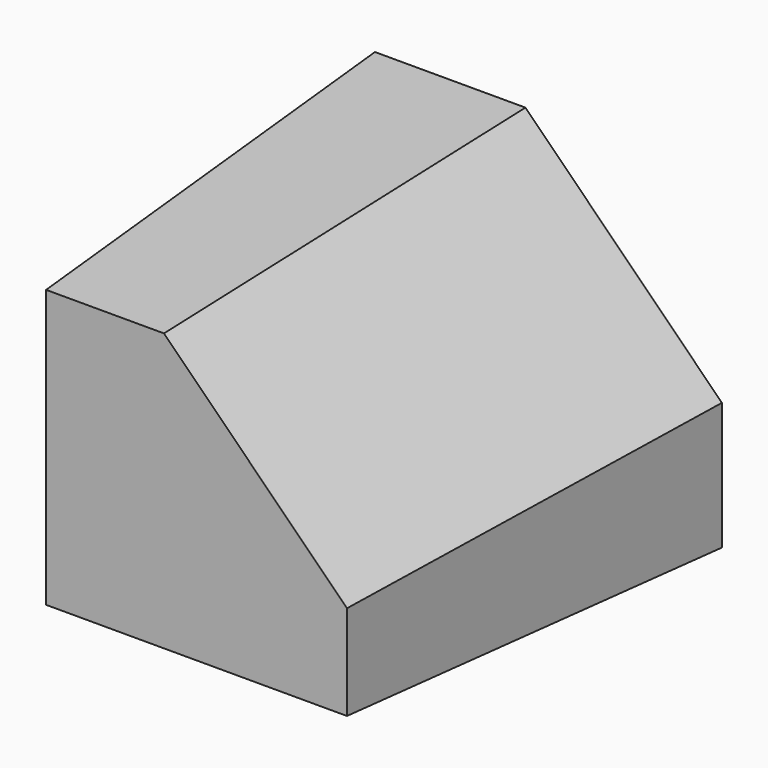
from build123d import *

# Parameters (mm, degrees)
F1_DEPTH = 70.48556
F1_TAPER = 3


with BuildPart() as f1:
    # F0 (on Front) → F1 (new body)
    with BuildSketch(Plane.XZ):
        Polygon((-105.2418574691, 51.8238693476), (-105.2418574691, 0), (-49.6423840523, 0), (-49.6423840523, 20.419145003), (-81.1298340559, 51.8238693476), align=None)
    extrude(amount=F1_DEPTH, taper=F1_TAPER)


solid = f1.part
